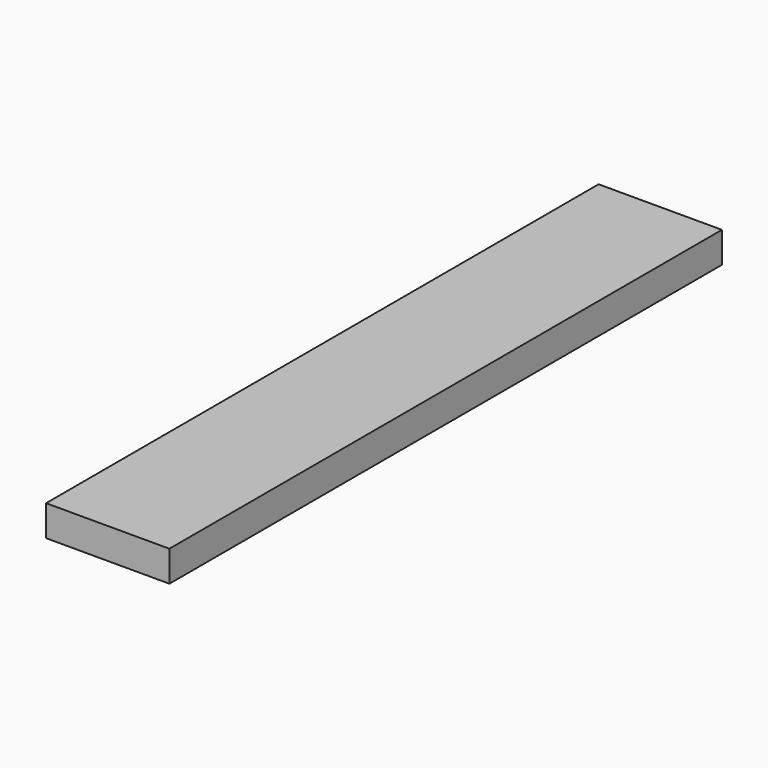
from build123d import *

# Parameters (mm, degrees)
F0_W     = 100
F0_H     = 560
F1_DEPTH = 25
F2_DEPTH = 25
F3_DEPTH = 25
F4_DEPTH = 25


with BuildPart() as f1:
    # F0 (on Top) → F1 (new body)
    with BuildSketch(Plane.XY):
        with Locations((-50, 280)):
            Rectangle(F0_W, F0_H)
    extrude(amount=F1_DEPTH)

    # F0 (on Top) → F2 (join)
    with BuildSketch(Plane.XY):
        with Locations((-50, 280)):
            Rectangle(F0_W, F0_H)
    extrude(amount=F2_DEPTH)

    # F0 (on Top) → F3 (join)
    with BuildSketch(Plane.XY):
        with Locations((-50, 280)):
            Rectangle(F0_W, F0_H)
    extrude(amount=F3_DEPTH)

    # F0 (on Top) → F4 (join)
    with BuildSketch(Plane.XY):
        with Locations((-50, 280)):
            Rectangle(F0_W, F0_H)
    extrude(amount=F4_DEPTH)


solid = f1.part
